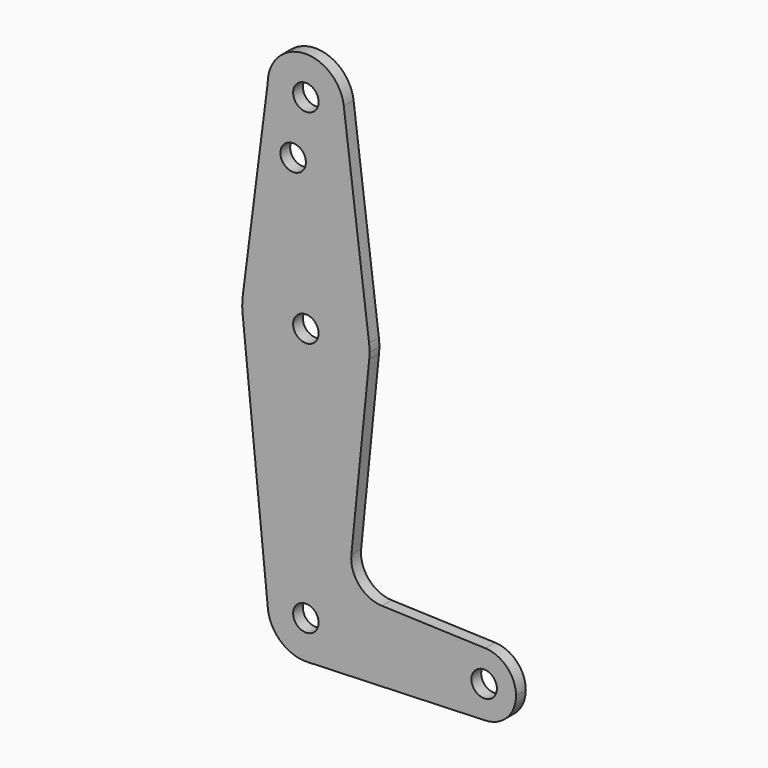
from build123d import *

# Parameters (mm, degrees)
F0_R     = 3.175
F1_DEPTH = 3.048


with BuildPart() as f1:
    # F0 (on Front) → F1 (new body)
    with BuildSketch(Plane.XZ):
        with BuildLine():
            ThreePointArc((0.340179, -9.518923), (6.854408, -6.613827), (9.525, 0))
            ThreePointArc((9.525, 0), (-0.476848, 9.513056), (-9.477255, -0.9525))
            ThreePointArc((-9.477255, -0.9525), (-6.262383, -7.17692), (0.340179, -9.518923))
        make_face()
        Circle(F0_R, mode=Mode.SUBTRACT)
        with BuildLine():
            ThreePointArc((-9.477255, -0.9525), (-0.476848, 9.513056), (9.525, 0))
            ThreePointArc((9.525, 0), (6.854408, -6.613827), (0.340179, -9.518923))
            Line((0.340179, -9.518923), (44.733482, -7.932436))
            ThreePointArc((44.733482, -7.932436), (36.5125, 0), (44.733482, 7.932436))
            Line((44.733482, 7.932436), (18.9676, 8.853234))
            ThreePointArc((18.9676, 8.853234), (13.2612, 11.571359), (11.341187, 17.593382))
            Line((11.341187, 17.593382), (15.795426, 61.9125))
            ThreePointArc((15.795426, 61.9125), (0, 47.625), (-15.795426, 61.9125))
            Line((-15.795426, 61.9125), (-9.477255, -0.9525))
        make_face()
        with BuildLine():
            ThreePointArc((-15.747457, 65.508289), (-15.873588, 63.711757), (-15.795426, 61.9125))
            ThreePointArc((-15.795426, 61.9125), (0, 47.625), (15.795426, 61.9125))
            ThreePointArc((15.795426, 61.9125), (15.855094, 62.705253), (15.875, 63.5))
            ThreePointArc((15.875, 63.5), (15.843841, 64.494139), (15.750488, 65.484375))
            ThreePointArc((15.750488, 65.484375), (0.012053, 79.374995), (-15.747457, 65.508289))
        make_face()
        with Locations((0, 63.5)):
            Circle(F0_R, mode=Mode.SUBTRACT)
        with BuildLine():
            ThreePointArc((44.733482, 7.932436), (36.5125, 0), (44.733482, -7.932436))
            ThreePointArc((44.733482, -7.932436), (50.162007, -5.511523), (52.3875, 0))
            ThreePointArc((52.3875, 0), (50.162007, 5.511523), (44.733482, 7.932436))
        make_face()
        with Locations((44.45, 0)):
            Circle(F0_R, mode=Mode.SUBTRACT)
        with BuildLine():
            Line((-9.525, 114.3), (-15.747457, 65.508289))
            ThreePointArc((-15.747457, 65.508289), (0.012053, 79.374995), (15.750488, 65.484375))
            Line((15.750488, 65.484375), (9.450293, 115.490625))
            ThreePointArc((9.450293, 115.490625), (9.506305, 114.896483), (9.525, 114.3))
            ThreePointArc((9.525, 114.3), (0, 104.775), (-9.525, 114.3))
        make_face()
        with Locations((-3.175, 100.0252)):
            Circle(F0_R, mode=Mode.SUBTRACT)
        with BuildLine():
            ThreePointArc((9.450293, 115.490625), (-0.596483, 123.806305), (-9.525, 114.3))
            ThreePointArc((-9.525, 114.3), (0, 104.775), (9.525, 114.3))
            ThreePointArc((9.525, 114.3), (9.506305, 114.896483), (9.450293, 115.490625))
        make_face()
        with Locations((0, 114.3)):
            Circle(F0_R, mode=Mode.SUBTRACT)
    extrude(amount=F1_DEPTH)


solid = f1.part
